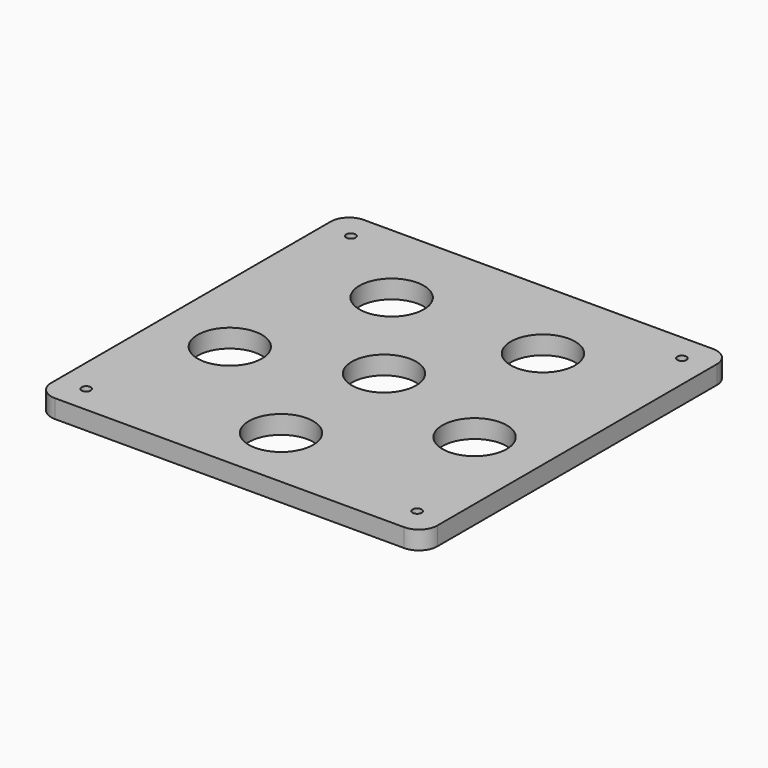
from build123d import *

# Parameters (mm, degrees)
F0_R     = 1.5875
F0_R_2   = 11.1125
F1_DEPTH = 6.35


with BuildPart() as f1:
    # F0 (on Top) → F1 (new body)
    with BuildSketch(Plane.XY):
        with BuildLine():
            ThreePointArc((0, 6.35), (1.859872, 1.859872), (6.35, 0))
            Line((6.35, 0), (127, 0))
            ThreePointArc((127, 0), (131.490128, 1.859872), (133.35, 6.35))
            Line((133.35, 6.35), (133.35, 127))
            ThreePointArc((133.35, 127), (131.490128, 131.490128), (127, 133.35))
            Line((127, 133.35), (6.35, 133.35))
            ThreePointArc((6.35, 133.35), (1.859872, 131.490128), (0, 127))
            Line((0, 127), (0, 6.35))
        make_face()
        with Locations((9.525, 9.525)):
            Circle(F0_R, mode=Mode.SUBTRACT)
        with Locations((24.400538, 52.939195)):
            Circle(F0_R_2, mode=Mode.SUBTRACT)
        with Locations((66.675, 22.225)):
            Circle(F0_R_2, mode=Mode.SUBTRACT)
        with Locations((123.825, 9.525)):
            Circle(F0_R, mode=Mode.SUBTRACT)
        with Locations((108.949462, 52.939195)):
            Circle(F0_R_2, mode=Mode.SUBTRACT)
        with Locations((9.525, 123.825)):
            Circle(F0_R, mode=Mode.SUBTRACT)
        with Locations((40.547946, 102.635805)):
            Circle(F0_R_2, mode=Mode.SUBTRACT)
        with Locations((66.675, 66.675)):
            Circle(F0_R_2, mode=Mode.SUBTRACT)
        with Locations((92.802054, 102.635805)):
            Circle(F0_R_2, mode=Mode.SUBTRACT)
        with Locations((123.825, 123.825)):
            Circle(F0_R, mode=Mode.SUBTRACT)
    extrude(amount=F1_DEPTH)


solid = f1.part
